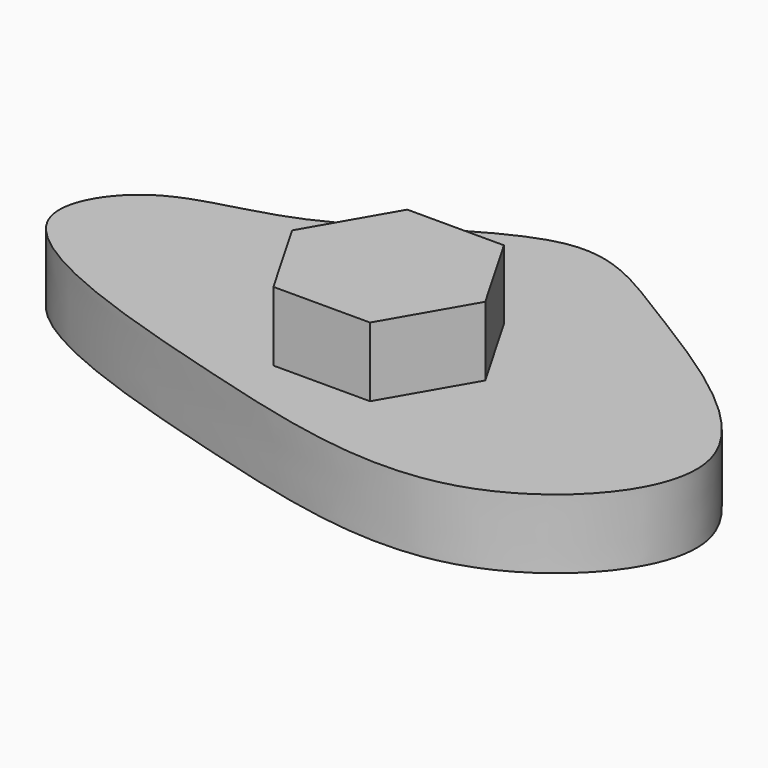
from build123d import *

# Parameters (mm, degrees)
F1_DEPTH = 25
F3_DEPTH = 25


with BuildPart() as f1:
    # F0 (on Top) → F1 (new body)
    with BuildSketch(Plane.XY):
        with BuildLine():
            add(Edge.make_bspline(
                [(-122.6449534297, 0), (-126.9857130007, 10.4789124314), (-110.6507464217, 37.0076037524), (-63.7410870152, 38.4218836746), (0.957349058, 92.5006061196), (45.4596160599, 62.5073426788), (141.9909195075, 5.8860169646), (73.4040162206, -71.7895436738), (-22.4370791853, -47.1561260091), (-114.7868686225, -18.9699938977), (-122.6449534297, 0)],
                knots=[0, 0, 0, 0, 0.0850896754, 0.1886984886, 0.3182463885, 0.4255146331, 0.5697308072, 0.6922453789, 0.8459620086, 1, 1, 1, 1], degree=3))
        make_face()
    extrude(amount=F1_DEPTH)

    # F2 (on face) → F3 (join)
    with BuildSketch(Plane.XY.offset(25)):
        Polygon((17.4266054467, 30.1837660372), (-17.4266054467, 30.1837660372), (-34.8532108935, 0), (-17.4266054467, -30.1837660372), (17.4266054467, -30.1837660372), (34.8532108935, 0), align=None)
    extrude(amount=F3_DEPTH)


solid = f1.part
